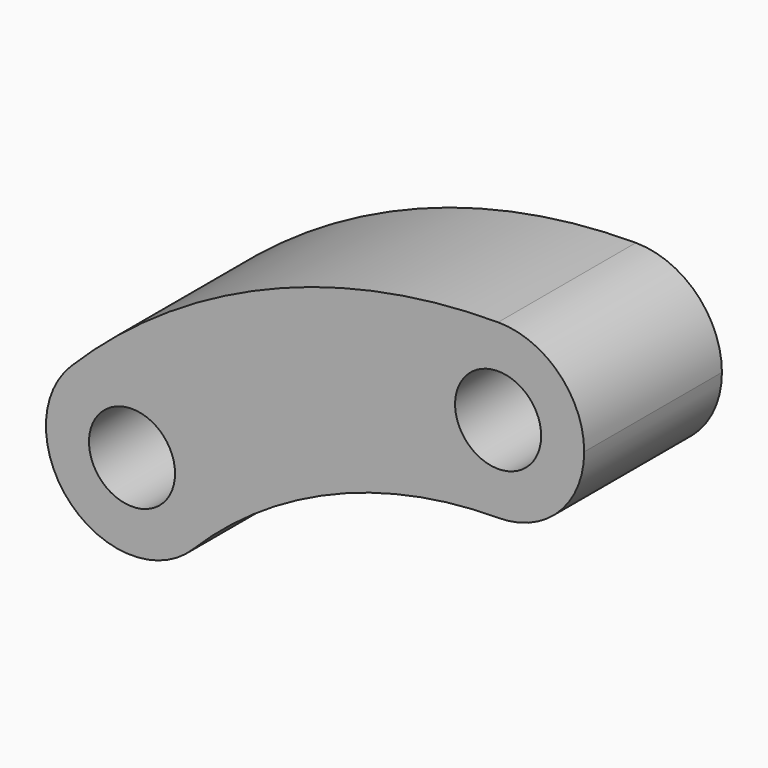
from build123d import *

# Parameters (mm, degrees)
F0_R     = 0.79375
F1_DEPTH = 3.175


with BuildPart() as f1:
    # F0 (on Front) → F1 (new body)
    with BuildSketch(Plane.XZ):
        with BuildLine():
            ThreePointArc((-5.6266509982, 5.59863419), (-3.0466988173, 7.3294974293), (0, 7.9375))
            ThreePointArc((0, 7.9375), (-1.5875, 9.525), (0, 11.1125))
            ThreePointArc((0, 11.1125), (-4.2653783436, 10.2612964013), (-7.8773113966, 7.838087867))
            ThreePointArc((-7.8773113966, 7.838087867), (-6.1463020137, 8.1857767564), (-5.1644812114, 6.7183610145))
            ThreePointArc((-5.1644812114, 6.7183610145), (-5.284565462, 6.1126818351), (-5.6266509982, 5.59863419))
        make_face()
        with BuildLine():
            ThreePointArc((0, 11.1125), (-1.5875, 9.525), (0, 7.9375))
            ThreePointArc((0, 7.9375), (1.1225320151, 8.4024679849), (1.5875, 9.525))
            ThreePointArc((1.5875, 9.525), (1.1225320151, 10.6475320151), (0, 11.1125))
        make_face()
        with Locations((0, 9.525)):
            Circle(F0_R, mode=Mode.SUBTRACT)
        with BuildLine():
            ThreePointArc((-7.8773113966, 7.838087867), (-7.8717080499, 5.5930308153), (-5.6266509982, 5.59863419))
            ThreePointArc((-5.6266509982, 5.59863419), (-5.284565462, 6.1126818351), (-5.1644812114, 6.7183610145))
            ThreePointArc((-5.1644812114, 6.7183610145), (-6.1463020137, 8.1857767564), (-7.8773113966, 7.838087867))
        make_face()
        with Locations((-6.7519812114, 6.7183610145)):
            Circle(F0_R, mode=Mode.SUBTRACT)
    extrude(amount=-F1_DEPTH)


solid = f1.part
